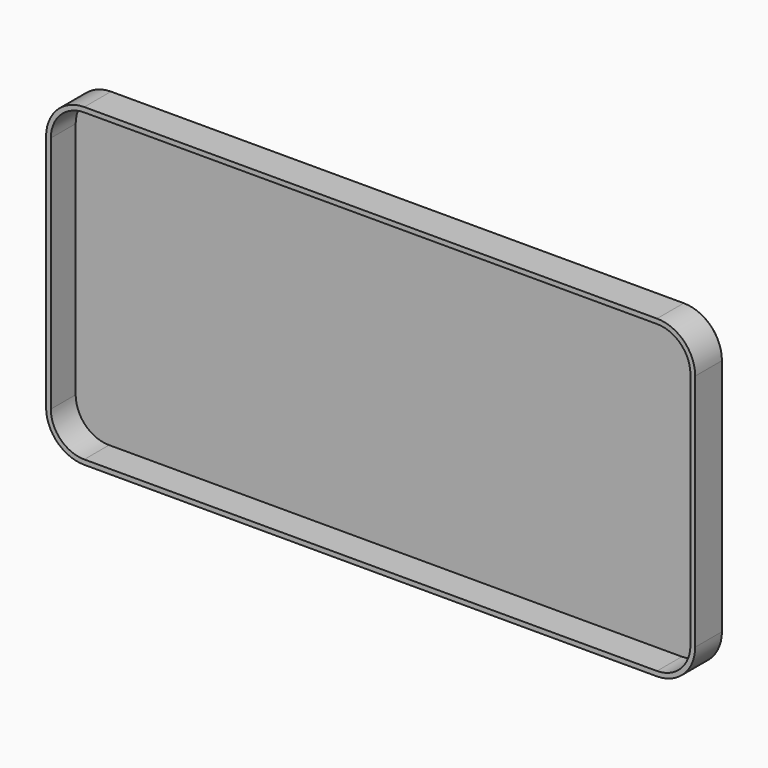
from build123d import *

# Parameters (mm, degrees)
F1_DEPTH = 1
F3_DEPTH = 7.5
F5_DEPTH = 6.5
F6_SIZE  = 0.5


with BuildPart() as f1:
    # F0 (on Front) → F1 (new body)
    with BuildSketch(Plane.XZ):
        with BuildLine():
            ThreePointArc((0, 5), (1.464466, 1.464466), (5, 0))
            Line((5, 0), (125, 0))
            ThreePointArc((125, 0), (128.535534, 1.464466), (130, 5))
            Line((130, 5), (130, 55))
            ThreePointArc((130, 55), (128.535534, 58.535534), (125, 60))
            Line((125, 60), (5, 60))
            ThreePointArc((5, 60), (1.464466, 58.535534), (0, 55))
            Line((0, 55), (0, 5))
        make_face()
    extrude(amount=F1_DEPTH)

    # F2 (on face) → F3 (join)
    with BuildSketch(Plane(origin=(0, 0, 0), x_dir=(-1, 0, 0), z_dir=(0, 1, 0))):
        with BuildLine():
            ThreePointArc((3, 55), (0.656854, 60.656854), (-5, 63))
            Line((-5, 63), (-125, 63))
            ThreePointArc((-125, 63), (-130.656854, 60.656854), (-133, 55))
            Line((-133, 55), (-133, 5))
            ThreePointArc((-133, 5), (-130.656854, -0.656854), (-125, -3))
            Line((-125, -3), (-5, -3))
            ThreePointArc((-5, -3), (0.656854, -0.656854), (3, 5))
            Line((3, 5), (3, 55))
        make_face()
        with BuildLine():
            Line((0, 55), (0, 5))
            ThreePointArc((0, 5), (-1.464466, 1.464466), (-5, 0))
            Line((-5, 0), (-125, 0))
            ThreePointArc((-125, 0), (-128.535534, 1.464466), (-130, 5))
            Line((-130, 5), (-130, 55))
            ThreePointArc((-130, 55), (-128.535534, 58.535534), (-125, 60))
            Line((-125, 60), (-5, 60))
            ThreePointArc((-5, 60), (-1.464466, 58.535534), (0, 55))
        make_face(mode=Mode.SUBTRACT)
    extrude(amount=-F3_DEPTH)

    # F4 (on face) → F5 (cut, through all)
    with BuildSketch(Plane.XZ.offset(7.5)):
        with BuildLine():
            Line((125, 62), (5, 62))
            ThreePointArc((5, 62), (0.050253, 59.949747), (-2, 55))
            Line((-2, 55), (-2, 5))
            ThreePointArc((-2, 5), (0.050253, 0.050253), (5, -2))
            Line((5, -2), (125, -2))
            ThreePointArc((125, -2), (129.949747, 0.050253), (132, 5))
            Line((132, 5), (132, 55))
            ThreePointArc((132, 55), (129.949747, 59.949747), (125, 62))
        make_face()
        with BuildLine():
            ThreePointArc((5, 0), (1.464466, 1.464466), (0, 5))
            Line((0, 5), (0, 55))
            ThreePointArc((0, 55), (1.464466, 58.535534), (5, 60))
            Line((5, 60), (125, 60))
            ThreePointArc((125, 60), (128.535534, 58.535534), (130, 55))
            Line((130, 55), (130, 5))
            ThreePointArc((130, 5), (128.535534, 1.464466), (125, 0))
            Line((125, 0), (5, 0))
        make_face(mode=Mode.SUBTRACT)
    extrude(amount=-F5_DEPTH, mode=Mode.SUBTRACT)

    # F6
    f6_edges = [f1.edges().sort_by_distance(p)[0] for p in [
        (-0.656854, 0, -0.656854),
        (65, 0, -3),
        (130.656854, 0, -0.656854),
        (133, 0, 30),
        (130.656854, 0, 60.656854),
        (65, 0, 63),
        (-0.656854, 0, 60.656854),
        (-3, 0, 30),
    ]]
    chamfer(f6_edges, length=F6_SIZE)


solid = f1.part
